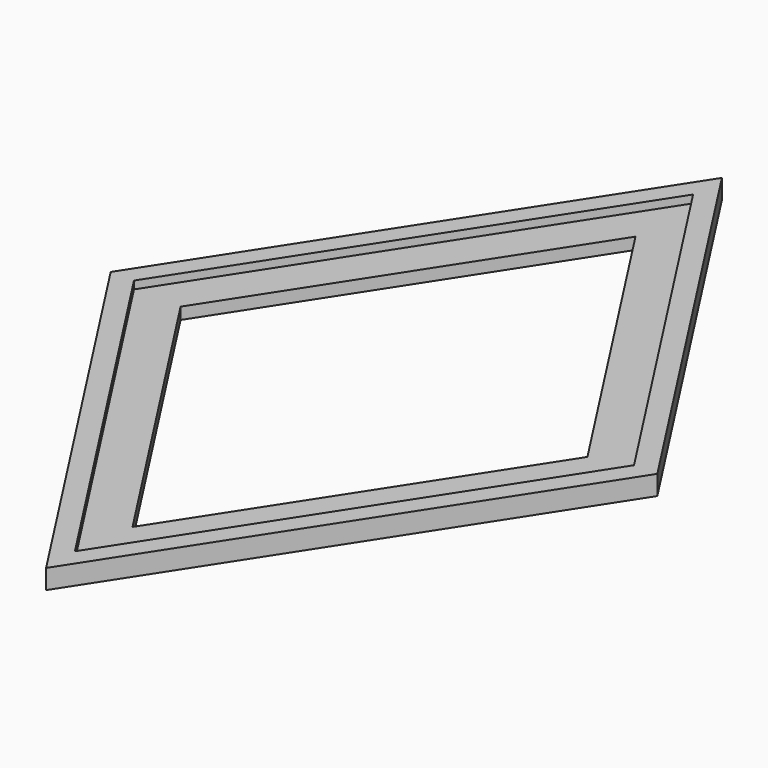
from build123d import *

# Parameters (mm, degrees)
F1_DEPTH = 5
F2_DEPTH = 3


with BuildPart() as f1:
    # F0 (on Top) → F1 (new body)
    with BuildSketch(Plane.XY):
        Polygon((0, 107.95), (-69.85, 0), (0, -107.95), (69.85, 0), align=None)
        Polygon((0, -98.746156), (-63.894572, 0), (0, 98.746156), (63.894572, 0), align=None, mode=Mode.SUBTRACT)
    extrude(amount=F1_DEPTH)

    # F0 (on Top) → F2 (join)
    with BuildSketch(Plane.XY):
        Polygon((0, 98.746156), (-63.894572, 0), (0, -98.746156), (63.894572, 0), align=None)
        Polygon((-51.983715, 0), (0, 80.338468), (51.983715, 0), (0, -80.338468), align=None, mode=Mode.SUBTRACT)
    extrude(amount=F2_DEPTH)


solid = f1.part
